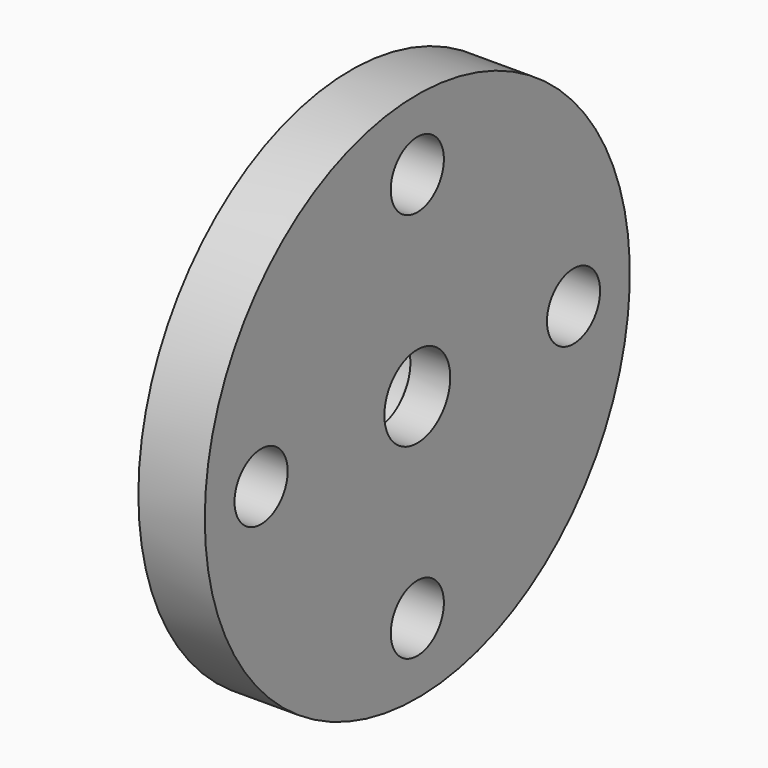
from build123d import *

# Parameters (mm, degrees)
SKETCH030_R             = 10
SKETCH030_R_2           = 1.55
SKETCH030_R_3           = 1.25
PAD027_DEPTH            = 2.5
SKETCH031_R             = 4.5
SKETCH031_R_2           = 3
PAD028_DEPTH            = 2
SKETCH032_R             = 3
POCKET009_DEPTH         = 1
BODY011_PLACEMENT_ANGLE = 180


with BuildPart() as part:
    # Sketch030 → Pad027 (new body)
    with BuildSketch(Plane.YZ):
        Circle(SKETCH030_R)
        Circle(SKETCH030_R_2, mode=Mode.SUBTRACT)
        with Locations((-7.35, 0)):
            Circle(SKETCH030_R_3, mode=Mode.SUBTRACT)
        with Locations((0, -7.35)):
            Circle(SKETCH030_R_3, mode=Mode.SUBTRACT)
        with Locations((7.35, 0)):
            Circle(SKETCH030_R_3, mode=Mode.SUBTRACT)
        with Locations((0, 7.35)):
            Circle(SKETCH030_R_3, mode=Mode.SUBTRACT)
    extrude(amount=PAD027_DEPTH)

    # Sketch031 (on Face8 of Pad027) → Pad028 (join)
    with BuildSketch(Plane.YZ.offset(2.5)):
        Circle(SKETCH031_R)
        Circle(SKETCH031_R_2, mode=Mode.SUBTRACT)
    extrude(amount=PAD028_DEPTH)

    # Sketch032 (on Face10 of Pad028) → Pocket009 (cut)
    with BuildSketch(Plane.YZ.offset(2.5)):
        Circle(SKETCH032_R)
    extrude(amount=-POCKET009_DEPTH, mode=Mode.SUBTRACT)


with BuildPart() as part_1:
    # Body011 placement: moved
    add(part.part.moved(Location((19.2, 11.3, 0))).rotate(Axis((19.2, 11.3, 0), (0, 0, 1)), BODY011_PLACEMENT_ANGLE))


solid = part_1.part
